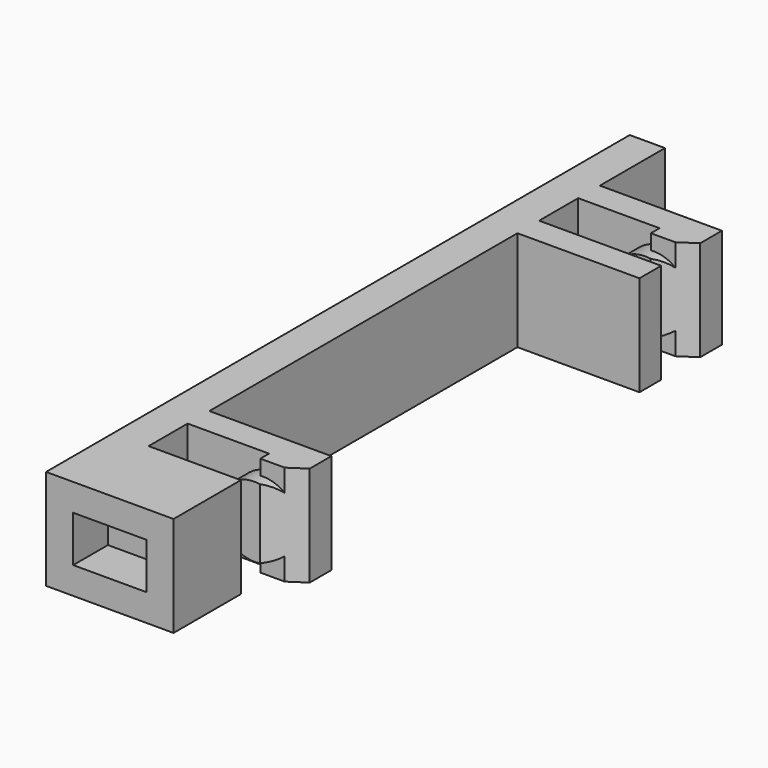
from build123d import *

# Parameters (mm, degrees)
PAD_DEPTH       = 3.7
SKETCH001_W     = 2.7
SKETCH001_H     = 1.7
POCKET_DEPTH    = 2
SKETCH002_R     = 1.3
PAD001_DEPTH    = 1
SKETCH003_W     = 1.5
SKETCH003_H     = 3.7
PAD002_DEPTH    = 0.4
POCKET001_DEPTH = 5
SKETCH005_R     = 1.3
PAD003_DEPTH    = 1
SKETCH006_W     = 1.5
SKETCH006_H     = 3.7
PAD004_DEPTH    = 0.4
POCKET002_DEPTH = 5
SKETCH008_W     = 4.7
SKETCH008_H     = 3.7
POCKET003_DEPTH = 0.4
SKETCH009_W     = 1.3
SKETCH009_H     = 3.7
POCKET004_DEPTH = 0.7
SKETCH010_W     = 2.5
SKETCH010_H     = 3.592296
POCKET005_DEPTH = 0.2
SKETCH011_W     = 2
SKETCH011_H     = 3.592296
POCKET006_DEPTH = 0.2


with BuildPart() as part:
    # Sketch → Pad (new body)
    with BuildSketch(Plane.XY):
        Polygon((0, 28), (0, 0), (4.7, 0), (4.7, 3.5), (1.3, 3.5), (1.3, 5.3), (5.8, 5.3), (5.8, 6.3), (1.3, 6.3), (1.3, 20.5), (5.8, 20.5), (5.8, 21.5), (1.3, 21.5), (1.3, 23.3), (5.8, 23.3), (5.8, 24.3), (1.3, 24.3), (1.3, 28), align=None)
    extrude(amount=PAD_DEPTH)

    # Sketch001 → Pocket (cut)
    with BuildSketch(Plane.XZ):
        with Locations((2.35, 1.85)):
            Rectangle(SKETCH001_W, SKETCH001_H)
    extrude(amount=-POCKET_DEPTH, mode=Mode.SUBTRACT)

    # Sketch002 → Pad001 (new body)
    with BuildSketch(Plane.XZ.offset(-5.3)):
        with Locations((4.4, 1.85)):
            Circle(SKETCH002_R)
    extrude(amount=PAD001_DEPTH)

    # Sketch003 → Pad002 (new body)
    with BuildSketch(Plane.XZ.offset(-5.3)):
        with Locations((5.05, 1.85)):
            Rectangle(SKETCH003_W, SKETCH003_H)
    extrude(amount=PAD002_DEPTH)

    # Sketch004 → Pocket001 (cut)
    with BuildSketch(Plane.XY.offset(3.7)):
        Polygon((5.8, 5.3), (4.3, 4.3), (5.8, 4.3), align=None)
    extrude(amount=-POCKET001_DEPTH, mode=Mode.SUBTRACT)

    # Sketch005 → Pad003 (new body)
    with BuildSketch(Plane.XZ.offset(-23.3)):
        with Locations((4.4, 1.85)):
            Circle(SKETCH005_R)
    extrude(amount=PAD003_DEPTH)

    # Sketch006 → Pad004 (new body)
    with BuildSketch(Plane.XZ.offset(-23.3)):
        with Locations((5.05, 1.85)):
            Rectangle(SKETCH006_W, SKETCH006_H)
    extrude(amount=PAD004_DEPTH)

    # Sketch007 → Pocket002 (cut)
    with BuildSketch(Plane.XY.offset(3.7)):
        Polygon((5.8, 23.3), (4.3, 22.3), (5.8, 22.3), align=None)
    extrude(amount=-POCKET002_DEPTH, mode=Mode.SUBTRACT)

    # Sketch008 → Pocket003 (cut)
    with BuildSketch(Plane.XZ):
        with Locations((2.35, 1.85)):
            Rectangle(SKETCH008_W, SKETCH008_H)
    extrude(amount=-POCKET003_DEPTH, mode=Mode.SUBTRACT)

    # Sketch009 → Pocket004 (cut)
    with BuildSketch(Plane(origin=(0, 28, 0), x_dir=(-1, 0, 0), z_dir=(0, 1, 0))):
        with Locations((-0.65, 1.85)):
            Rectangle(SKETCH009_W, SKETCH009_H)
    extrude(amount=-POCKET004_DEPTH, mode=Mode.SUBTRACT)

    # Sketch010 → Pocket005 (cut)
    with BuildSketch(Plane.XZ.offset(-4.3)):
        with Locations((4.05, 1.85)):
            Rectangle(SKETCH010_W, SKETCH010_H)
    extrude(amount=-POCKET005_DEPTH, mode=Mode.SUBTRACT)

    # Sketch011 → Pocket006 (cut)
    with BuildSketch(Plane.XZ.offset(-22.3)):
        with Locations((3.8, 1.85)):
            Rectangle(SKETCH011_W, SKETCH011_H)
    extrude(amount=-POCKET006_DEPTH, mode=Mode.SUBTRACT)


solid = part.part
